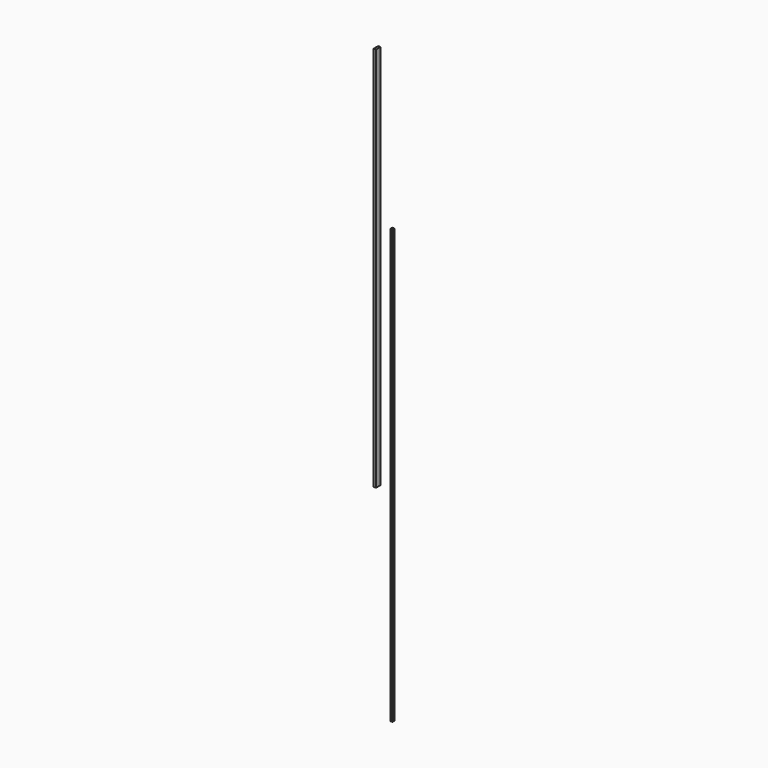
from build123d import *

# Parameters (mm, degrees)
F0_W     = 10
F0_H     = 2000
F1_DEPTH = 10
F2_W     = 10.859258
F2_H     = 1780
F3_DEPTH = 25


with BuildPart() as f1:
    # F0 (on Front) → F1 (new body)
    with BuildSketch(Plane.XZ):
        Rectangle(F0_W, F0_H)
    extrude(amount=F1_DEPTH)


with BuildPart() as f3:
    # F2 (on Front) → F3 (new body)
    with BuildSketch(Plane.XZ):
        with Locations((-64.396668, 826.259918)):
            Rectangle(F2_W, F2_H)
    extrude(amount=F3_DEPTH)


solid = Compound([f1.part, f3.part])
